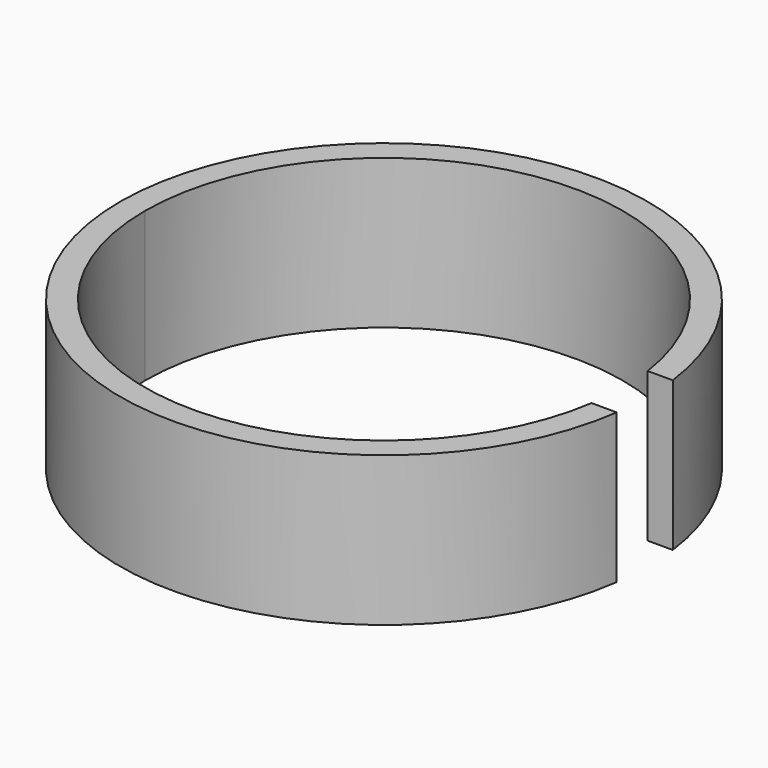
from build123d import *

# Parameters (mm, degrees)
F0_R     = 26.5
F1_DEPTH = 15
F3_D     = 48
F5_DEPTH = 15.001


with BuildPart() as f1:
    # F0 (on Top) → F1 (new body)
    with BuildSketch(Plane.XY):
        Circle(F0_R)
    extrude(amount=F1_DEPTH)

    # F3 (through all)
    with Locations(Plane.XY.offset(15)):
        with Locations((0, 0)):
            Hole(F3_D / 2)

    # F4 (on face) → F5 (cut, through all)
    with BuildSketch(Plane.XY.offset(15)):
        with BuildLine():
            Line((26.2814522422, 3.396361), (23.7584665321, 3.396361))
            ThreePointArc((23.7584665321, 3.396361), (23.9395404798, 1.7024692698), (24, 0))
            ThreePointArc((24, 0), (23.9318812143, -1.8069481297), (23.7279115381, -3.603639))
            Line((23.727911538, -3.603639), (26.2538337383, -3.603639))
            ThreePointArc((26.2538337383, -3.603639), (26.4383868084, -1.8060185402), (26.5, 0))
            ThreePointArc((26.5, 0), (26.4453066197, 1.7016926254), (26.2814522422, 3.396361))
        make_face()
    extrude(amount=-F5_DEPTH, mode=Mode.SUBTRACT)


solid = f1.part
